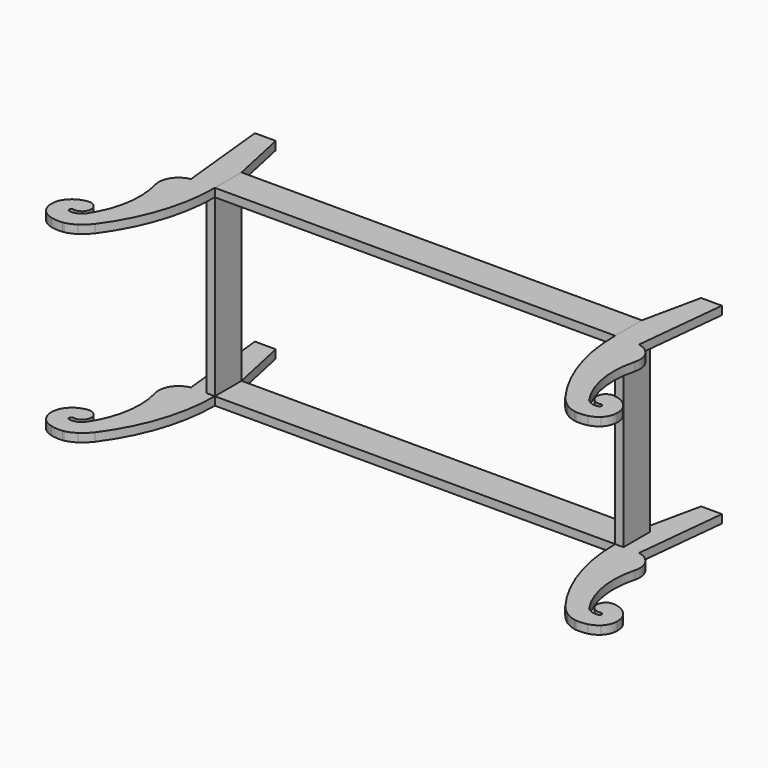
from build123d import *

# Parameters (mm, degrees)
F0_W     = 609.6
F0_H     = 12.7
F1_DEPTH = 50.8
F0_W_2   = 12.7
F0_H_2   = 266.7
F2_W     = 12.7
F2_H     = 50.8
F3_DEPTH = 12.7
F5_ANGLE = -180


with BuildPart() as f1:
    # F0 (on Front) → F1 (new body)
    with BuildSketch(Plane.XZ):
        with Locations((-304.8, 273.05)):
            Rectangle(F0_W, F0_H)
    extrude(amount=-F1_DEPTH)


with BuildPart() as f1b:
    # F0 (on Front) → F1, piece 2 (new body)
    with BuildSketch(Plane.XZ):
        with Locations((-615.95, 133.35)):
            Rectangle(F0_W_2, F0_H_2)
    extrude(amount=-F1_DEPTH)


with BuildPart() as f1c:
    # F0 (on Front) → F1, piece 3 (new body)
    with BuildSketch(Plane.XZ):
        with Locations((-304.8, -6.35)):
            Rectangle(F0_W, F0_H)
    extrude(amount=-F1_DEPTH)


with BuildPart() as f1d:
    # F0 (on Front) → F1, piece 4 (new body)
    with BuildSketch(Plane.XZ):
        with Locations((6.35, 133.35)):
            Rectangle(F0_W_2, F0_H_2)
    extrude(amount=-F1_DEPTH)


with BuildPart() as f3:
    # F2 (on face) → F3 (new body)
    with BuildSketch(Plane(origin=(0, 0, 0), x_dir=(1, 0, 0), z_dir=(0, 0, -1))):
        with BuildLine():
            Line((-645.9102040121, 0.1342328254), (-660.4, -139.7))
            Line((-660.4, -139.7), (-628.65, -139.7))
            Line((-628.65, -139.7), (-609.6, -50.8))
            Line((-609.6, -50.8), (-622.3, -50.8))
            Line((-622.3, -50.8), (-622.3, 0))
            Line((-622.3, 0), (-609.6, 0))
            ThreePointArc((-609.6, 0), (-623.2803073061, 85.1510941944), (-662.9443381904, 161.7319292936))
            ThreePointArc((-662.9443381904, 161.7319292936), (-669.9150458905, 169.2111834532), (-677.8722124795, 175.6309582546))
            ThreePointArc((-677.8722124795, 175.6309582546), (-685.3939840604, 179.6711134272), (-693.5392720275, 182.2312277738))
            ThreePointArc((-693.5392720275, 182.2312277738), (-694.6553469695, 182.4423338731), (-695.7753334812, 182.631593681))
            ThreePointArc((-695.7753334812, 182.631593681), (-704.5469958034, 182.7349302538), (-713.211354947, 181.3632090828))
            ThreePointArc((-713.211354947, 181.3632090828), (-720.6970835094, 178.4832501557), (-727.2618843698, 173.875247856))
            ThreePointArc((-727.2618843698, 173.875247856), (-733.4488459776, 164.9257920963), (-735.8124467222, 154.3057806156))
            ThreePointArc((-735.8124467222, 154.3057806156), (-735.3718822723, 148.1361345283), (-733.9245098421, 142.1225047654))
            ThreePointArc((-733.9245098421, 142.1225047654), (-722.3044648718, 127.815741153), (-705.0238053707, 121.4057694387))
            ThreePointArc((-705.0238053707, 121.4057694387), (-689.9484841331, 135.7115369308), (-706.3612115219, 148.4607594019))
            ThreePointArc((-706.3612115219, 148.4607594019), (-710.1050628418, 150.939635618), (-707.6261866257, 154.6834869379))
            ThreePointArc((-707.6261866257, 154.6834869379), (-697.2966262254, 154.0581258323), (-688.6547317714, 148.365274629))
            ThreePointArc((-688.6547317714, 148.365274629), (-667.2511742359, 95.1699156732), (-670.0525968534, 37.8985395685))
            ThreePointArc((-670.0525968534, 37.8985395685), (-666.3389416994, 13.6734827559), (-645.9102040121, 0.1342328254))
        make_face()
        with Locations((-615.95, -25.4)):
            Rectangle(F2_W, F2_H)
    extrude(amount=F3_DEPTH)


with BuildPart() as f4_1:
    # F4: copy of F3
    add(f3.part.moved(Location((0, 0, 279.4))))


with BuildPart() as f5_1:
    # F5: copy of F3
    add(f3.part.rotate(Axis((-609.6, 25.4, -12.7), (0, -1, 0)), F5_ANGLE))


with BuildPart() as f6_1:
    # F6: copy of F5_1
    add(f5_1.part.moved(Location((609.6, 0, 12.7))))


with BuildPart() as f7_1:
    # F7: copy of F6_1
    add(f6_1.part.moved(Location((0, 0, 279.4))))


solid = Compound([f1.part, f1b.part, f1c.part, f1d.part, f3.part, f4_1.part, f6_1.part, f7_1.part])
